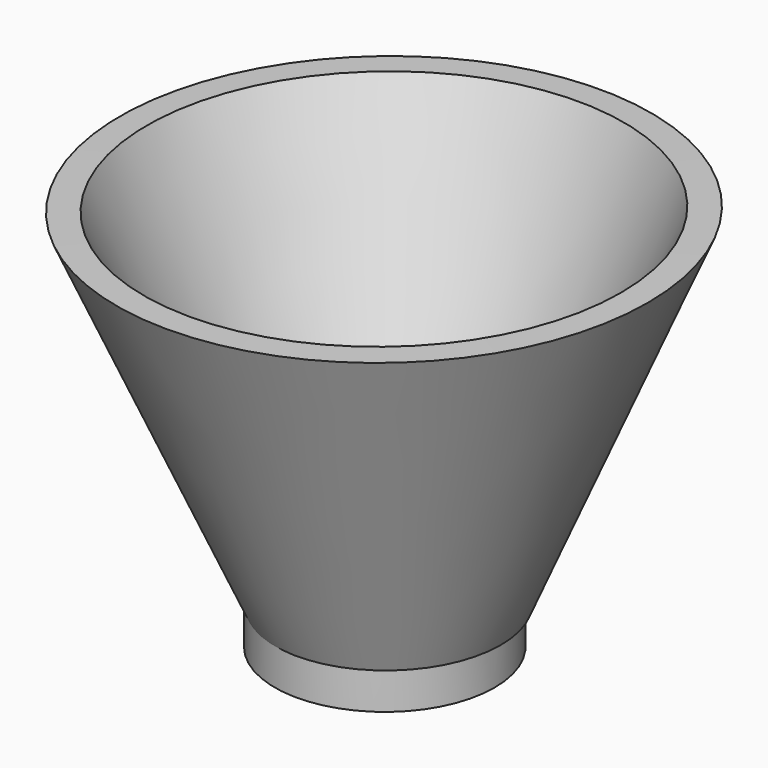
from build123d import *

# Parameters (mm, degrees)
F2_R     = 20.9843875465
F3_DEPTH = 25.4
F5_R     = 17.4817395379
F6_DEPTH = 25.4


with BuildPart() as f1:
    # F0 (on Front) → F1 (revolve)
    with BuildSketch(Plane.XZ):
        Polygon((-32.9396761954, 21.1004912853), (-54.5175522566, 21.1004912853), (-54.3266013265, 7.5427088886), (-32.9396761954, 7.5427088886), (-4.8693441786, 74.185885489), (-10.025119409, 74.185885489), align=None)
    revolve(axis=Axis((-54.4220767915, 0, 14.321600087), (-0.0140828336, 0, 0.999900832)))

    # F2 (on Top) → F3 (join)
    with BuildSketch(Plane.XY):
        with Locations((-55.1074631512, 0)):
            Circle(F2_R)
    extrude(amount=F3_DEPTH)

    # F5 (on face) → F6 (cut)
    with BuildSketch(Plane(origin=(0, 0, 0), x_dir=(1, 0, 0), z_dir=(0, 0, -1))):
        with Locations((-55.2984140813, 0)):
            Circle(F5_R)
    extrude(amount=-F6_DEPTH, mode=Mode.SUBTRACT)


solid = f1.part
